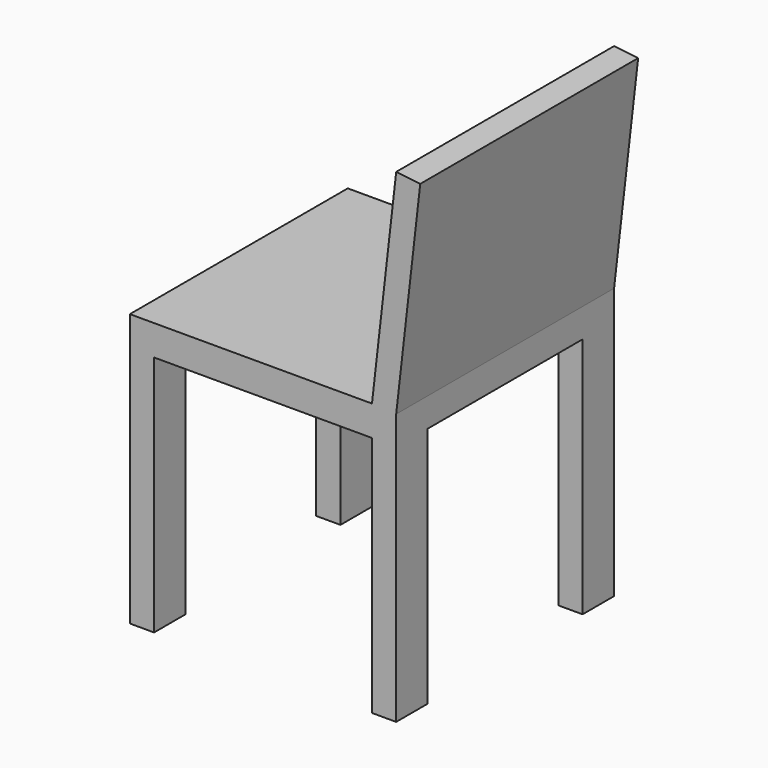
from build123d import *

# Parameters (mm, degrees)
F1_DEPTH      = 45
F2_W          = 31.9801214337
F2_H          = 40
F3_DEPTH      = 7.9751306906
F3_DEPTH_BACK = 40.001


with BuildPart() as f1:
    # F0 (on Front) → F1 (new body)
    with BuildSketch(Plane.XZ):
        Polygon((-4, 0), (0, 0), (0, 44.7721700924), (3.9741306906, 79.5458136354), (0, 80), (-4, 45), (-44, 45), (-44, 0), (-40, 0), (-40, 40), (-4, 40), align=None)
    extrude(amount=F1_DEPTH)

    # F2 (on face) → F3 (cut, two sides)
    with BuildSketch(Plane(origin=(-4, 0, 0), x_dir=(0, -1, 0), z_dir=(-1, 0, 0))) as f3_sk:
        with Locations((22.5, 20)):
            Rectangle(F2_W, F2_H)
    extrude(amount=-F3_DEPTH, mode=Mode.SUBTRACT)
    extrude(f3_sk.sketch, amount=F3_DEPTH_BACK, mode=Mode.SUBTRACT)


solid = f1.part
